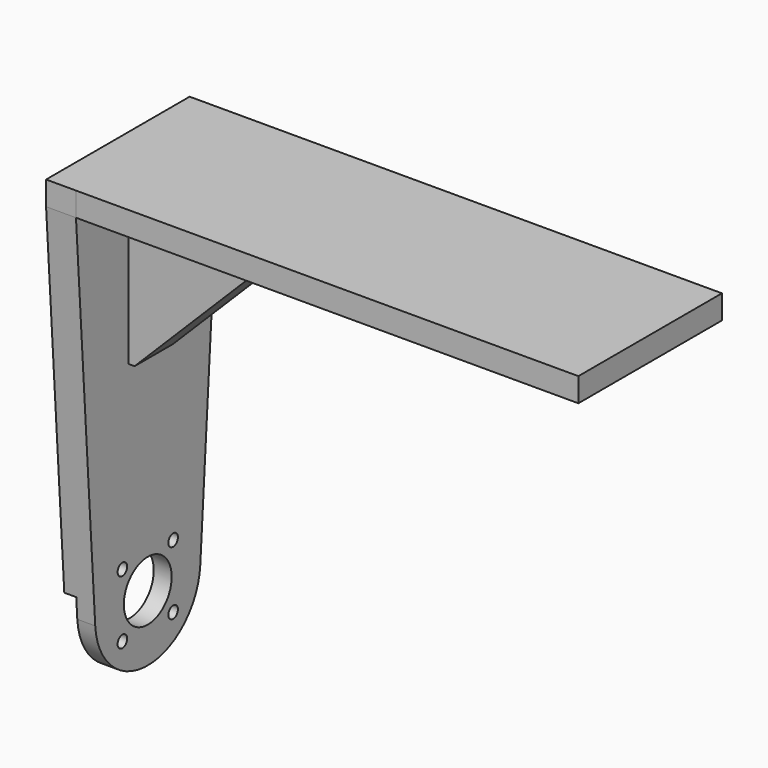
from build123d import *

# Parameters (mm, degrees)
CYLINDER067_R             = 11.5
CYLINDER067_DEPTH         = 23
CYLINDER066_R             = 5
CYLINDER066_DEPTH         = 23
CYLINDER068_R             = 1
CYLINDER068_DEPTH         = 31
CYLINDER071_R             = 1
CYLINDER071_DEPTH         = 31
CYLINDER070_R             = 1
CYLINDER070_DEPTH         = 31
CYLINDER069_R             = 1
CYLINDER069_DEPTH         = 31
FUSION058_ROLL_ANGLE      = -90
FUSION059_PITCH_ANGLE     = -45
FUSION059_PLACEMENT_ANGLE = 90
BOX068_W                  = 85
BOX068_H                  = 30
BOX068_DEPTH              = 4
PAD006_DEPTH              = 5
BOX069_W                  = 27
BOX069_H                  = 8
BOX069_DEPTH              = 30
CHAMFER013_SIZE           = 25


with BuildPart() as cylinder179:
    # Cylinder067 → Cylinder067 (new body)
    with BuildSketch(Plane(origin=(-3, 71, 73), x_dir=(0, 0, 1), z_dir=(0, -1, 0))):
        Circle(CYLINDER067_R)
    extrude(amount=CYLINDER067_DEPTH)


with BuildPart() as fusion057:
    # Cylinder066 → Cylinder066 (new body)
    with BuildSketch(Plane(origin=(-3, 66, 73), x_dir=(0, 0, 1), z_dir=(0, -1, 0))):
        Circle(CYLINDER066_R)
    extrude(amount=CYLINDER066_DEPTH)

    # Fusion057: union Cylinder179
    add(cylinder179.part)


with BuildPart() as cylinder180:
    # Cylinder068 → Cylinder068 (new body)
    with BuildSketch(Plane(origin=(-7.5, -11, 132), x_dir=(1, 0, 0), z_dir=(0, 0, 1))):
        Circle(CYLINDER068_R)
    extrude(amount=CYLINDER068_DEPTH)


with BuildPart() as cylinder183:
    # Cylinder071 → Cylinder071 (new body)
    with BuildSketch(Plane(origin=(0, -3.5, 132), x_dir=(1, 0, 0), z_dir=(0, 0, 1))):
        Circle(CYLINDER071_R)
    extrude(amount=CYLINDER071_DEPTH)


with BuildPart() as cylinder182:
    # Cylinder070 → Cylinder070 (new body)
    with BuildSketch(Plane(origin=(7.5, -11, 132), x_dir=(1, 0, 0), z_dir=(0, 0, 1))):
        Circle(CYLINDER070_R)
    extrude(amount=CYLINDER070_DEPTH)


with BuildPart() as fusion059:
    # Cylinder069 → Cylinder069 (new body)
    with BuildSketch(Plane(origin=(0, -18.5, 132), x_dir=(1, 0, 0), z_dir=(0, 0, 1))):
        Circle(CYLINDER069_R)
    extrude(amount=CYLINDER069_DEPTH)

    # Fusion058: union Cylinder180, Cylinder183, Cylinder182
    add(cylinder180.part)
    add(cylinder183.part)
    add(cylinder182.part)


with BuildPart() as fusion059_1:
    # Fusion058 roll: moved
    add(fusion059.part.rotate(Axis((0, 0, 0), (1, 0, 0)), FUSION058_ROLL_ANGLE))


with BuildPart() as fusion059_2:
    # Fusion058 placement: moved
    add(fusion059_1.part.moved(Location((-3, -97.5, 62))))

    # Fusion059: union Fusion057
    add(fusion057.part)


with BuildPart() as fusion059_3:
    # Fusion059 pitch: moved
    add(fusion059_2.part.rotate(Axis((0, 0, 0), (0, 1, 0)), FUSION059_PITCH_ANGLE))


with BuildPart() as fusion059_4:
    # Fusion059 placement: moved
    add(fusion059_3.part.moved(Location((-30, 53.740115, -51.497475))).rotate(Axis((-30, 53.740115, -51.497475), (0, 0, 1)), FUSION059_PLACEMENT_ANGLE))


with BuildPart() as cube071:
    # Box068 → Box068 (new body)
    with BuildSketch(Plane(origin=(-76, -15, 59), x_dir=(1, 0, 0), z_dir=(0, 0, 1))):
        with Locations((42.5, 15)):
            Rectangle(BOX068_W, BOX068_H)
    extrude(amount=BOX068_DEPTH)


with BuildPart() as fusion061:
    # Sketch008 → Pad006 (new body)
    with BuildSketch(Plane(origin=(-80, 0, 0), x_dir=(0, -1, 0), z_dir=(-1, 0, 0))):
        with BuildLine():
            ThreePointArc((-10.976703, -2.715538), (0, -13), (10.976703, -2.715538))
            Line((15.000001, 59), (10.976703, -2.715538))
            Line((15.000001, 63), (15.000001, 59))
            Line((-14.999999, 63), (15.000001, 63))
            Line((-14.999999, 63), (-14.999999, 59))
            Line((-14.999999, 59), (-10.976703, -2.715538))
        make_face()
    extrude(amount=-PAD006_DEPTH)

    # Fusion061: union Cube071
    add(cube071.part)


with BuildPart() as clone_of_cut095:
    # Box069 → Box069 (new body)
    with BuildSketch(Plane(origin=(-76, -4, 33), x_dir=(1, 0, 0), z_dir=(0, 0, 1))):
        with Locations((13.5, 4)):
            Rectangle(BOX069_W, BOX069_H)
    extrude(amount=BOX069_DEPTH)

    # Chamfer013
    chamfer013_edges = [clone_of_cut095.edges().sort_by_distance(p)[0] for p in [
        (-49, 0, 33),
    ]]
    chamfer(chamfer013_edges, length=CHAMFER013_SIZE)

    # Fusion062: union Fusion061
    add(fusion061.part)

    # Cut095: cut Fusion059
    add(fusion059_4.part, mode=Mode.SUBTRACT)


solid = clone_of_cut095.part
